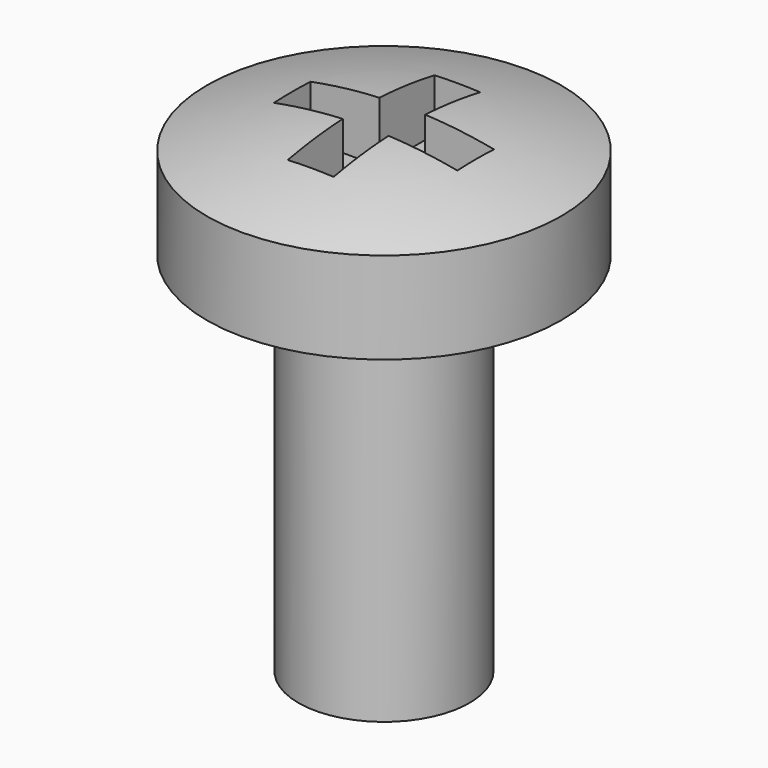
from build123d import *

# Parameters (mm, degrees)
POCKET_DEPTH = 1.002493


with BuildPart() as part:
    # Sketch → Revolution (revolve)
    with BuildSketch(Plane.XZ):
        with BuildLine():
            Line((0, -6), (-1.4, -6))
            Line((-1.4, -6), (-1.4, 0))
            Line((-1.4, 0), (-2.9, 0))
            Line((-2.9, 0), (-2.9, 1.5))
            add(Edge.make_bspline(
                [(0, 2), (-1.27, 2.028858), (-2.9, 1.5)],
                knots=[0, 0, 0, 1, 1, 1], degree=2))
            Line((0, 2), (0, -6))
        make_face()
    revolve(axis=Axis((0, 0, 0), (0, 0, 1)))

    # Sketch001 → Pocket (cut, through all)
    with BuildSketch(Plane.XY.offset(1)):
        Polygon((0.375, 1.5), (-0.375, 1.5), (-0.375, 0.375), (-1.5, 0.375), (-1.5, -0.375), (-0.375, -0.375), (-0.375, -1.5), (0.375, -1.5), (0.375, -0.375), (1.5, -0.375), (1.5, 0.375), (0.375, 0.375), align=None)
    extrude(amount=POCKET_DEPTH, mode=Mode.SUBTRACT)


solid = part.part
